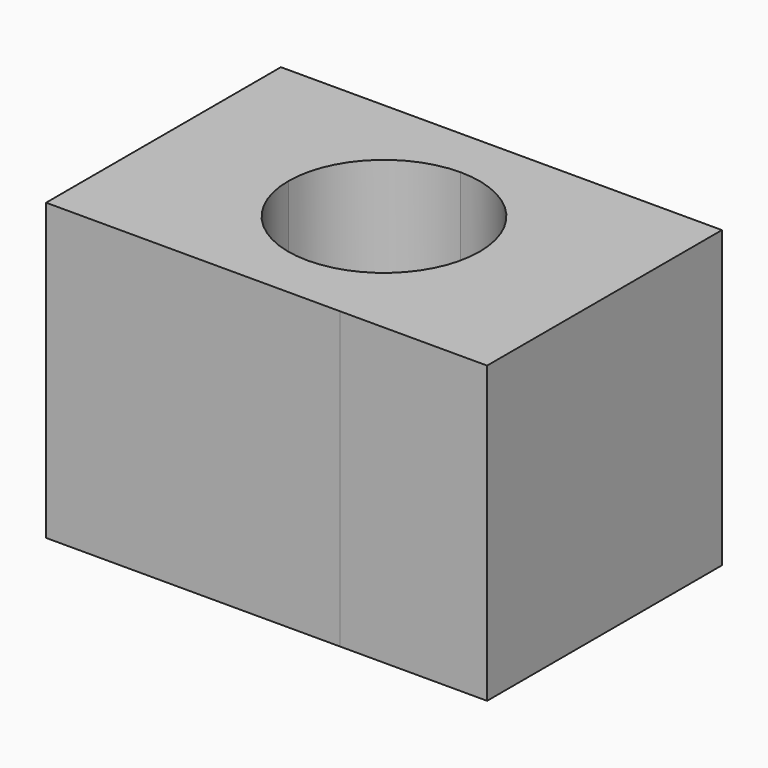
from build123d import *

# Parameters (mm, degrees)
F0_W      = 50.710565
F0_H      = 50.99229
F1_DEPTH  = 25.4
F1_FACE_W = 50.710564
F1_FACE_H = 50.99229
F2_DEPTH  = 76.2
F4_DEPTH  = 76.2


with BuildPart() as f1:
    # F0 (on Right) → F1 (new body)
    with BuildSketch(Plane.YZ):
        with Locations((10.5647, 5.352781)):
            Rectangle(F0_W, F0_H)
    extrude(amount=F1_DEPTH)

    # F1_face (on face) → F2 (join)
    with BuildSketch(Plane(origin=(25.4, 10.564701, 5.352781), x_dir=(0, 1, 0), z_dir=(1, 0, 0))):
        Rectangle(F1_FACE_W, F1_FACE_H)
    extrude(amount=-F2_DEPTH)

    # F3 (on face) → F4 (cut)
    with BuildSketch(Plane(origin=(0, 0, -20.143364), x_dir=(1, 0, 0), z_dir=(0, 0, -1))):
        with BuildLine():
            ThreePointArc((3.819773, -10.564701), (-1.018756, 1.116543), (-12.7, 5.955072))
            Line((-12.7, 5.955072), (-12.7, -10.564701))
            Line((-12.7, -10.564701), (3.819773, -10.564701))
        make_face()
        with BuildLine():
            Line((-12.7, -10.564701), (-12.7, 5.955072))
            ThreePointArc((-12.7, 5.955072), (-24.381244, 1.116543), (-29.219773, -10.564701))
            Line((-29.219773, -10.564701), (-12.7, -10.564701))
        make_face()
        with BuildLine():
            Line((3.819773, -10.564701), (-12.7, -10.564701))
            Line((-12.7, -10.564701), (-12.7, -27.084474))
            ThreePointArc((-12.7, -27.084474), (-1.018756, -22.245944), (3.819773, -10.564701))
        make_face()
        with BuildLine():
            Line((-12.7, -27.084474), (-12.7, -10.564701))
            Line((-12.7, -10.564701), (-29.219773, -10.564701))
            ThreePointArc((-29.219773, -10.564701), (-24.381244, -22.245944), (-12.7, -27.084474))
        make_face()
    extrude(amount=-F4_DEPTH, mode=Mode.SUBTRACT)


solid = f1.part
